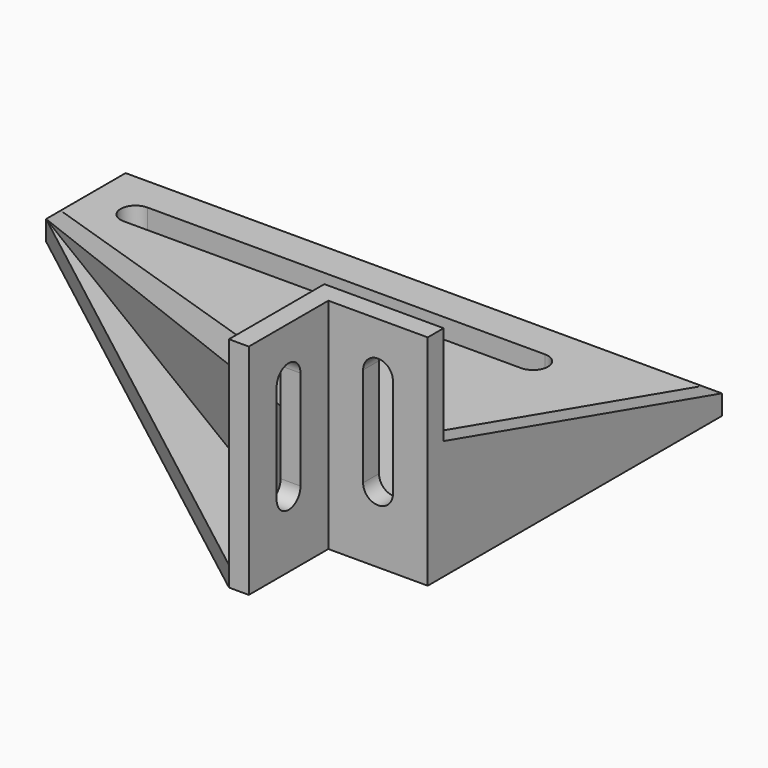
from build123d import *

# Parameters (mm, degrees)
SKETCH_W             = 2
SKETCH_H             = 20
PAD_DEPTH            = 10
POCKET_DEPTH         = 2
SKETCH003_W          = 2
SKETCH003_H          = 20
PAD001_DEPTH         = 10
PAD001_DEPTH_BACK    = 2
POCKET001_DEPTH      = 2.001
PAD002_DEPTH         = 2
PAD003_DEPTH         = 10
PAD003_DEPTH_BACK    = 29
PAD004_DEPTH         = 10
POCKET002_DEPTH      = 2
POCKET002_DEPTH_BACK = -8
POCKET003_DEPTH      = 20.001
POCKET004_DEPTH      = 20.001
POCKET005_DEPTH      = 2.001


with BuildPart() as part:
    # Sketch → Pad (new body)
    with BuildSketch(Plane.XZ):
        with Locations((-1, 10)):
            Rectangle(SKETCH_W, SKETCH_H)
    extrude(amount=PAD_DEPTH)

    # Sketch002 → Pocket (cut)
    with BuildSketch(Plane.YZ):
        with BuildLine():
            ThreePointArc((-3.5, 15), (-5, 16.5), (-6.5, 15))
            Line((-6.5, 15), (-6.5, 5))
            ThreePointArc((-6.5, 5), (-5, 3.5), (-3.5, 5))
            Line((-3.5, 15), (-3.5, 5))
        make_face()
    extrude(amount=-POCKET_DEPTH, mode=Mode.SUBTRACT)

    # Sketch003 → Pad001 (join, two sides)
    with BuildSketch(Plane.YZ) as pad001_sk:
        with Locations((1, 10)):
            Rectangle(SKETCH003_W, SKETCH003_H)
    extrude(amount=PAD001_DEPTH)
    extrude(pad001_sk.sketch, amount=-PAD001_DEPTH_BACK)

    # Sketch001 → Pocket001 (cut, through all)
    with BuildSketch(Plane.XZ):
        with BuildLine():
            ThreePointArc((6.5, 15), (5, 16.5), (3.5, 15))
            Line((3.5, 15), (3.5, 5))
            ThreePointArc((3.5, 5), (5, 3.5), (6.5, 5))
            Line((6.5, 15), (6.5, 5))
        make_face()
    extrude(amount=-POCKET001_DEPTH, mode=Mode.SUBTRACT)

    # Sketch004 → Pad002 (join)
    with BuildSketch(Plane.XY):
        Polygon((-50, 37), (10, 37), (10, 0), (0, 0), (0, -10), (-2, -10), (-50, 27), align=None)
    extrude(amount=-PAD002_DEPTH)

    # Sketch005 → Pad003 (join, two sides)
    with BuildSketch(Plane.XZ) as pad003_sk:
        Polygon((-2, 0), (-50, 0), (-2, 10), align=None)
    extrude(amount=PAD003_DEPTH)
    extrude(pad003_sk.sketch, amount=-PAD003_DEPTH_BACK)

    # Sketch006 → Pad004 (join)
    with BuildSketch(Plane.YZ):
        Polygon((2, 10), (2, 0), (37, 0), align=None)
    extrude(amount=PAD004_DEPTH)

    # Sketch007 → Pocket002 (cut, two sides)
    with BuildSketch(Plane.YZ) as pocket002_sk:
        Polygon((2, 10), (2, 0), (37, 0), align=None)
    extrude(amount=-POCKET002_DEPTH, mode=Mode.SUBTRACT)
    extrude(pocket002_sk.sketch, amount=-POCKET002_DEPTH_BACK, mode=Mode.SUBTRACT)

    # Sketch008 → Pocket003 (cut, through all)
    with BuildSketch(Plane.XY):
        Polygon((-50, 27), (-2, -2), (-2, -12), (-50, -12), align=None)
    extrude(amount=POCKET003_DEPTH, mode=Mode.SUBTRACT)

    # Sketch009 → Pocket004 (cut, through all)
    with BuildSketch(Plane.XY):
        Polygon((-2, 2), (-2, 37), (-50, 37), (-50, 28.830978), align=None)
    extrude(amount=POCKET004_DEPTH, mode=Mode.SUBTRACT)

    # Sketch010 → Pocket005 (cut, through all)
    with BuildSketch(Plane.XY):
        with BuildLine():
            ThreePointArc((-45, 33.5), (-46.5, 32), (-45, 30.5))
            Line((-45, 30.5), (-5, 30.5))
            ThreePointArc((-5, 30.5), (-3.5, 32), (-5, 33.5))
            Line((-45, 33.5), (-5, 33.5))
        make_face()
    extrude(amount=-POCKET005_DEPTH, mode=Mode.SUBTRACT)


solid = part.part
